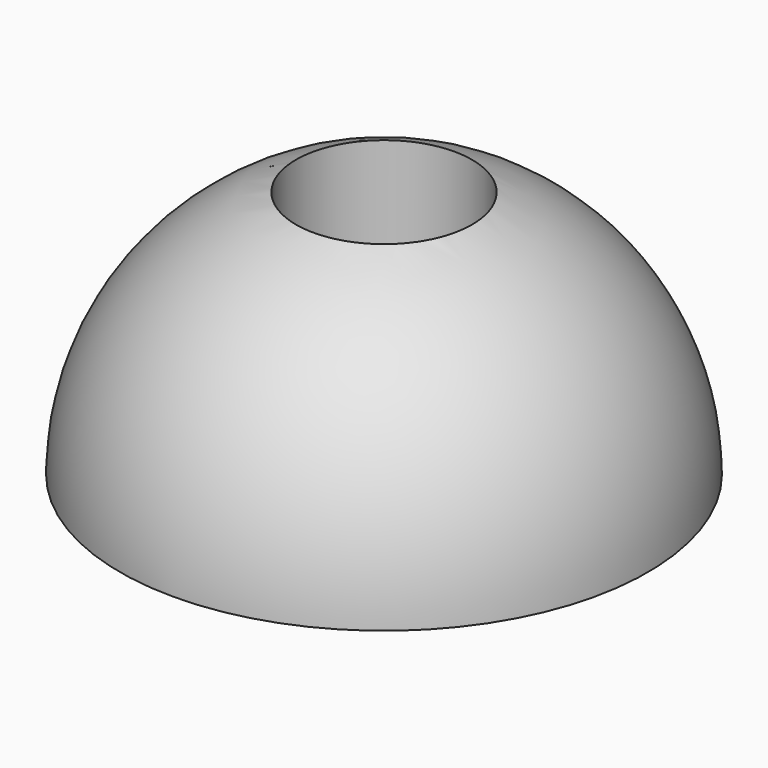
from build123d import *

# Parameters (mm, degrees)
F4_DEPTH = 30
F5_R     = 10
F6_DEPTH = 60


with BuildPart() as f2:
    # F0 (on Top) → F2 (revolve)
    with BuildSketch(Plane.XY):
        with BuildLine():
            Line((0, -30), (0, 30))
            ThreePointArc((0, 30), (-30, 0), (0, -30))
        make_face()
    revolve(axis=Axis((0, 0, 0), (0, -1, 0)))

    # F3 (on Front) → F4 (cut, symmetric)
    with BuildSketch(Plane.XZ):
        with BuildLine():
            Line((30, 0), (-30, 0))
            ThreePointArc((-30, 0), (0, -30), (30, 0))
        make_face()
    extrude(amount=F4_DEPTH, both=True, mode=Mode.SUBTRACT)

    # F5 (on face) → F6 (cut)
    with BuildSketch(Plane(origin=(0, 0, 0), x_dir=(1, 0, 0), z_dir=(0, 0, -1))):
        Circle(F5_R)
    extrude(amount=-F6_DEPTH, mode=Mode.SUBTRACT)


solid = f2.part
